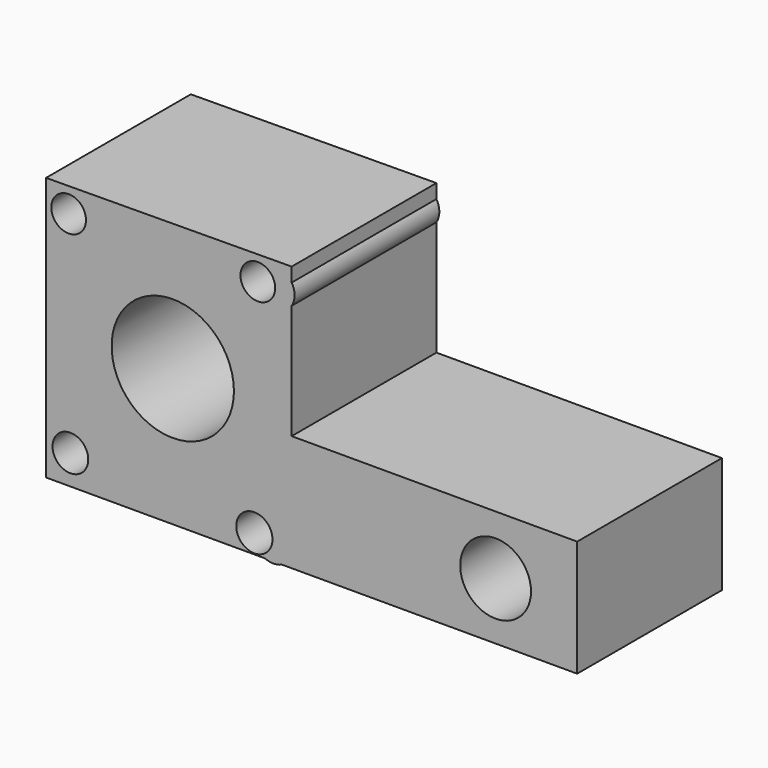
from build123d import *

# Parameters (mm, degrees)
F0_R     = 2.963143
F0_R_2   = 3.00478
F0_R_3   = 5.870107
F0_R_4   = 10.138773
F0_R_5   = 2.878059
F0_R_6   = 2.878057
F1_DEPTH = 30


with BuildPart() as f1:
    # F0 (on Front) → F1 (new body)
    with BuildSketch(Plane.XZ):
        Polygon((0, 17.412249), (-40.724516, 17.124442), (-40.724516, -26.622033), (-4.431914, -26.622033), (-1.612007, -26.622033), (47.344048, -26.622033), (47.344048, -7.339047), (0, -7.339047), (0, 11.686382), (0, 15.079555), align=None)
        with Locations((-36.695234, -21.729333)):
            Circle(F0_R, mode=Mode.SUBTRACT)
        with Locations((-6.187823, -23.456169)):
            Circle(F0_R_2, mode=Mode.SUBTRACT)
        with Locations((33.81718, -17.124442)):
            Circle(F0_R_3, mode=Mode.SUBTRACT)
        with Locations((-19.714694, -3.885378)):
            Circle(F0_R_4, mode=Mode.SUBTRACT)
        with Locations((-36.983039, 13.095162)):
            Circle(F0_R_5, mode=Mode.SUBTRACT)
        with Locations((-5.612212, 13.382968)):
            Circle(F0_R_6, mode=Mode.SUBTRACT)
        with BuildLine():
            Line((-1.612007, -26.622033), (-4.431914, -26.622033))
            ThreePointArc((-4.431914, -26.622033), (-3.021961, -26.921809), (-1.612007, -26.622033))
        make_face()
        with BuildLine():
            ThreePointArc((0, 11.686382), (0.48361, 13.382968), (0, 15.079555))
            Line((0, 15.079555), (0, 11.686382))
        make_face()
    extrude(amount=F1_DEPTH)


solid = f1.part
